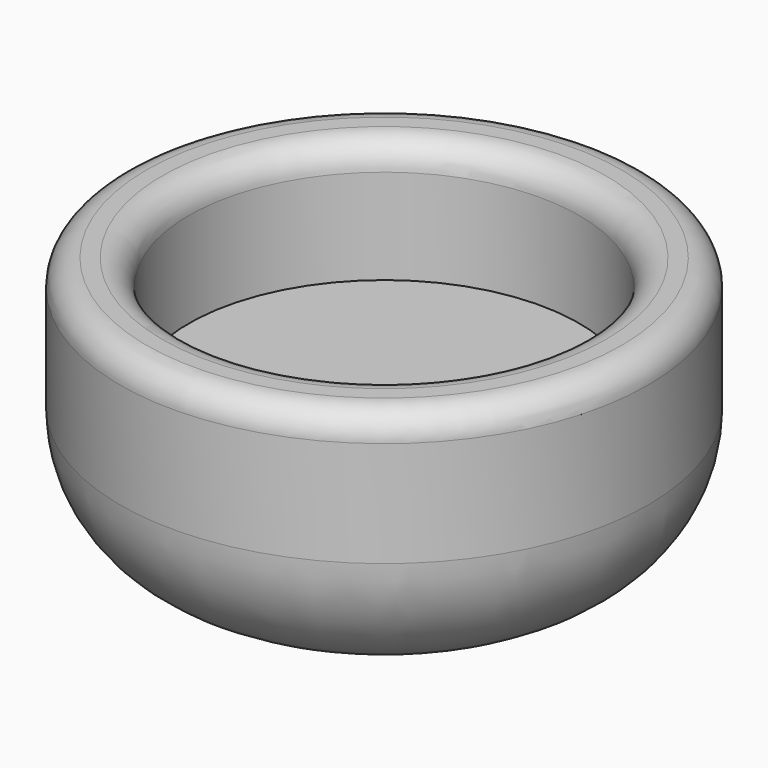
from build123d import *

# Parameters (mm, degrees)
F0_R     = 10
F1_DEPTH = 10
F2_R     = 7.4
F3_DEPTH = 4.6
F4_R     = 5
F5_R     = 1


with BuildPart() as f1:
    # F0 (on Top) → F1 (new body)
    with BuildSketch(Plane.XY):
        Circle(F0_R)
    extrude(amount=F1_DEPTH)

    # F2 (on face) → F3 (cut)
    with BuildSketch(Plane.XY.offset(10)):
        Circle(F2_R)
    extrude(amount=-F3_DEPTH, mode=Mode.SUBTRACT)

    # F4
    f4_edges = [f1.edges().sort_by_distance(p)[0] for p in [
        (-10, 0, 0),
    ]]
    fillet(f4_edges, radius=F4_R)

    # F5
    f5_edges = [f1.edges().sort_by_distance(p)[0] for p in [
        (-7.4, 0, 10),
        (-10, 0, 10),
    ]]
    fillet(f5_edges, radius=F5_R)


solid = f1.part
